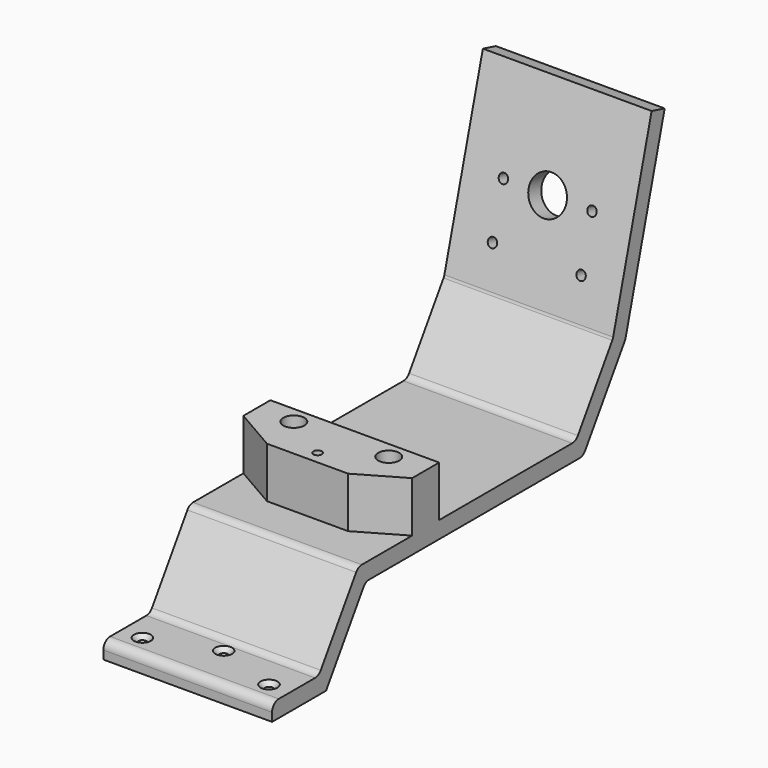
from build123d import *

# Parameters (mm, degrees)
PAD003_DEPTH    = 20
SKETCH006_R     = 4.5
SKETCH006_R_2   = 1.1
POCKET001_DEPTH = 112.6287098757
SKETCH007_R     = 2.5
SKETCH007_R_2   = 1
PAD004_DEPTH    = 12
FILLET002_R     = 2
SKETCH008_R     = 1
POCKET002_DEPTH = 5
CHAMFER_SIZE    = 1


with BuildPart() as part:
    # Sketch005 → Pad003 (new body, symmetric)
    with BuildSketch(Plane.YZ):
        Polygon((143.6765268423, 41.2666689085), (155.3233838719, 84.7333310915), (151.4596805668, 85.7686072719), (139.9764644611, 42.9126613312), (129.0082348028, 26), (84.4999553571, 26), (64.4999553571, 26), (52.8265628624, 8), (39, 8), (39, 4), (47, 4), (55, 4), (66.6733924947, 22), (131.1816719404, 22), align=None)
    extrude(amount=PAD003_DEPTH, both=True)

    # Sketch006 (on Face8 of Pad003) → Pocket001 (cut, through all)
    with BuildSketch(Plane(origin=(0, 123.7353572805, -33.1547890585), x_dir=(0, 0.2588190451, 0.9659258263), z_dir=(0, 0.9659258263, -0.2588190451))):
        with Locations((99.5467627446, 0)):
            Circle(SKETCH006_R)
        with Locations((99.6467627446, 10.5)):
            Circle(SKETCH006_R_2)
        with Locations((99.6467627446, -10.5)):
            Circle(SKETCH006_R_2)
        with Locations((87.1467627446, -10.5)):
            Circle(SKETCH006_R_2)
        with Locations((87.1467627446, 10.5)):
            Circle(SKETCH006_R_2)
    extrude(amount=-POCKET001_DEPTH, mode=Mode.SUBTRACT)

    # Sketch007 (on Face16 of Pocket001) → Pad004 (join)
    with BuildSketch(Plane(origin=(0, 0, 26), x_dir=(0, -1, 0), z_dir=(0, 0, 1))):
        Polygon((-80.4999553571, 20), (-88.4999553571, 20), (-88.4999553571, -20), (-80.4999553571, -20), (-74.4999553571, -9.6076951546), (-74.4999553571, 9.6076951546), align=None)
        with Locations((-84.4999553571, -11.25)):
            Circle(SKETCH007_R, mode=Mode.SUBTRACT)
        with Locations((-84.4999553571, 11.25)):
            Circle(SKETCH007_R, mode=Mode.SUBTRACT)
        with Locations((-77.4999553571, 0)):
            Circle(SKETCH007_R_2, mode=Mode.SUBTRACT)
    extrude(amount=PAD004_DEPTH)

    # Fillet002
    fillet002_edges = [part.edges().sort_by_distance(p)[0] for p in [
        (0, 139.976464, 42.912661),
        (0, 52.826563, 8),
        (0, 129.008235, 26),
        (0, 64.499955, 26),
        (0, 39, 8),
        (0, 143.676527, 41.266669),
        (0, 131.181672, 22),
        (0, 66.673392, 22),
    ]]
    fillet(fillet002_edges, radius=FILLET002_R)

    # Sketch008 (on Face8 of Pad004) → Pocket002 (cut)
    with BuildSketch(Plane.YX.offset(-4)):
        with Locations((44.3333333333, 15)):
            Circle(SKETCH008_R)
        with Locations((44.3333333333, -15)):
            Circle(SKETCH008_R)
        with Locations((49.6666666667, 0)):
            Circle(SKETCH008_R)
    extrude(amount=-POCKET002_DEPTH, mode=Mode.SUBTRACT)

    # Chamfer
    chamfer_edges = [part.edges().sort_by_distance(p)[0] for p in [
        (15, 43.333333, 8),
        (0, 48.666667, 8),
        (-15, 43.333333, 8),
    ]]
    chamfer(chamfer_edges, length=CHAMFER_SIZE)


solid = part.part
